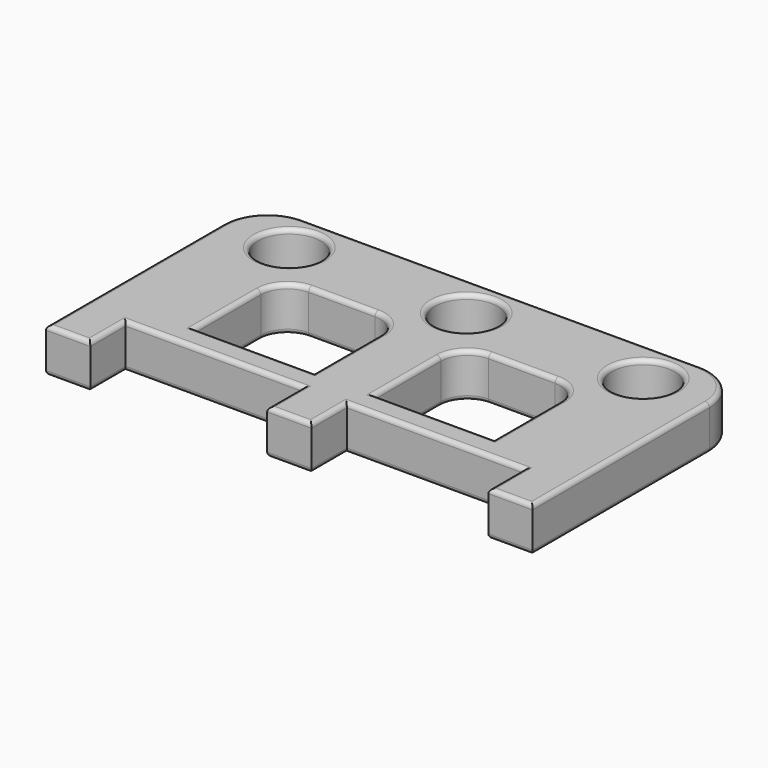
from build123d import *

# Parameters (mm, degrees)
F0_R     = 7.1
F1_DEPTH = 5
F2_R     = 1


with BuildPart() as f1:
    # F0 (on Top) → F1 (new body, symmetric)
    with BuildSketch(Plane.XY):
        with BuildLine():
            Line((-45, -50), (-45, -40))
            Line((-45, -40), (-5, -40))
            Line((-5, -40), (-5, -50))
            Line((-5, -50), (0, -50))
            Line((0, -50), (5, -50))
            Line((5, -50), (5, -40))
            Line((5, -40), (45, -40))
            Line((45, -40), (45, -50))
            Line((45, -50), (55, -50))
            Line((55, -50), (55, -40))
            Line((55, -40), (55, 0))
            ThreePointArc((55, 0), (52.057162, 7.104639), (44.952523, 10.047477))
            Line((44.952523, 10.047477), (-44.952523, 10.047477))
            ThreePointArc((-44.952523, 10.047477), (-52.057162, 7.104639), (-55, 0))
            Line((-55, 0), (-55, -40))
            Line((-55, -40), (-55, -50))
            Line((-55, -50), (-45, -50))
        make_face()
        with BuildLine():
            Line((-6.838616, -15.720509), (-6.838616, -34.448951))
            Line((-6.838616, -34.448951), (-33.84332, -34.448951))
            Line((-33.84332, -34.448951), (-33.84332, -15.720509))
            ThreePointArc((-33.84332, -15.720509), (-32.085961, -11.477868), (-27.84332, -9.720509))
            Line((-27.84332, -9.720509), (-12.838616, -9.720509))
            ThreePointArc((-12.838616, -9.720509), (-8.595975, -11.477868), (-6.838616, -15.720509))
        make_face(mode=Mode.SUBTRACT)
        with BuildLine():
            Line((6.838616, -34.448951), (6.838616, -15.720509))
            ThreePointArc((6.838616, -15.720509), (8.595975, -11.477868), (12.838616, -9.720509))
            Line((12.838616, -9.720509), (27.84332, -9.720509))
            ThreePointArc((27.84332, -9.720509), (32.085961, -11.477868), (33.84332, -15.720509))
            Line((33.84332, -15.720509), (33.84332, -34.448951))
            Line((33.84332, -34.448951), (6.838616, -34.448951))
        make_face(mode=Mode.SUBTRACT)
        with Locations((-40, 0)):
            Circle(F0_R, mode=Mode.SUBTRACT)
        Circle(F0_R, mode=Mode.SUBTRACT)
        with Locations((40, 0)):
            Circle(F0_R, mode=Mode.SUBTRACT)
    extrude(amount=F1_DEPTH, both=True)

    # F2
    f2_edges = [f1.edges().sort_by_distance(p)[0] for p in [
        (0, 10.047477, 5),
        (-52.057162, 7.104639, 5),
        (-55, -25, 5),
        (-50, -50, 5),
        (-45, -45, 5),
        (-25, -40, 5),
        (-5, -45, 5),
        (0, -50, 5),
        (5, -45, 5),
        (25, -40, 5),
        (45, -45, 5),
        (50, -50, 5),
        (55, -25, 5),
        (52.057162, 7.104639, 5),
        (-8.595975, -11.477868, 5),
        (-6.838616, -25.08473, 5),
        (-20.340968, -34.448951, 5),
        (-33.84332, -25.08473, 5),
        (-32.085961, -11.477868, 5),
        (-20.340968, -9.720509, 5),
        (6.838616, -25.08473, 5),
        (8.595975, -11.477868, 5),
        (20.340968, -9.720509, 5),
        (32.085961, -11.477868, 5),
        (33.84332, -25.08473, 5),
        (20.340968, -34.448951, 5),
        (-47.1, 0, 5),
        (-7.1, 0, 5),
        (32.9, 0, 5),
        (0, 10.047477, -5),
        (-52.057162, 7.104639, -5),
        (-55, -25, -5),
        (-50, -50, -5),
        (-45, -45, -5),
        (-25, -40, -5),
        (-5, -45, -5),
        (0, -50, -5),
        (5, -45, -5),
        (25, -40, -5),
        (45, -45, -5),
        (50, -50, -5),
        (55, -25, -5),
        (52.057162, 7.104639, -5),
        (-8.595975, -11.477868, -5),
        (-6.838616, -25.08473, -5),
        (-20.340968, -34.448951, -5),
        (-33.84332, -25.08473, -5),
        (-32.085961, -11.477868, -5),
        (-20.340968, -9.720509, -5),
        (6.838616, -25.08473, -5),
        (8.595975, -11.477868, -5),
        (20.340968, -9.720509, -5),
        (32.085961, -11.477868, -5),
        (33.84332, -25.08473, -5),
        (20.340968, -34.448951, -5),
        (-47.1, 0, -5),
        (-7.1, 0, -5),
        (32.9, 0, -5),
    ]]
    fillet(f2_edges, radius=F2_R)


solid = f1.part
